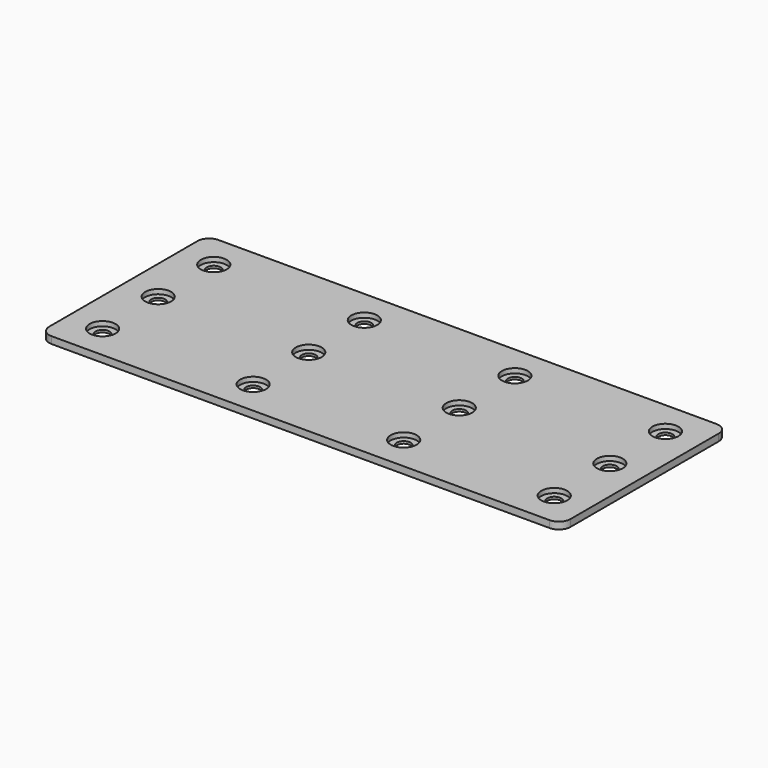
from build123d import *

# Parameters (mm, degrees)
SKETCH001_W     = 225
SKETCH001_H     = 90
PAD_DEPTH       = 2
PAD_DEPTH_BACK  = 1
SKETCH_R        = 5.6
POCKET_DEPTH    = 2.001
SKETCH004_R     = 3
POCKET001_DEPTH = 1.001
FILLET_R        = 5


with BuildPart() as part:
    # Sketch001 → Pad (new body, two sides)
    with BuildSketch(Plane.XY) as pad_sk:
        Rectangle(SKETCH001_W, SKETCH001_H)
    extrude(amount=PAD_DEPTH)
    extrude(pad_sk.sketch, amount=-PAD_DEPTH_BACK)

    # Sketch → Pocket (cut, through all)
    with BuildSketch(Plane.XY):
        with Locations((-97.5, 30)):
            Circle(SKETCH_R)
        with Locations((-32.5, 30)):
            Circle(SKETCH_R)
        with Locations((32.5, 30)):
            Circle(SKETCH_R)
        with Locations((97.5, 30)):
            Circle(SKETCH_R)
        with Locations((-97.5, 0)):
            Circle(SKETCH_R)
        with Locations((-32.5, 0)):
            Circle(SKETCH_R)
        with Locations((32.5, 0)):
            Circle(SKETCH_R)
        with Locations((97.5, 0)):
            Circle(SKETCH_R)
        with Locations((-97.5, -30)):
            Circle(SKETCH_R)
        with Locations((-32.5, -30)):
            Circle(SKETCH_R)
        with Locations((32.5, -30)):
            Circle(SKETCH_R)
        with Locations((97.5, -30)):
            Circle(SKETCH_R)
    extrude(amount=POCKET_DEPTH, mode=Mode.SUBTRACT)

    # Sketch004 → Pocket001 (cut, through all)
    with BuildSketch(Plane.XY):
        with Locations((-97.5, 30)):
            Circle(SKETCH004_R)
        with Locations((-32.5, 30)):
            Circle(SKETCH004_R)
        with Locations((32.5, 30)):
            Circle(SKETCH004_R)
        with Locations((97.5, 30)):
            Circle(SKETCH004_R)
        with Locations((-97.5, 0)):
            Circle(SKETCH004_R)
        with Locations((-32.5, 0)):
            Circle(SKETCH004_R)
        with Locations((32.5, 0)):
            Circle(SKETCH004_R)
        with Locations((97.5, 0)):
            Circle(SKETCH004_R)
        with Locations((-97.5, -30)):
            Circle(SKETCH004_R)
        with Locations((-32.5, -30)):
            Circle(SKETCH004_R)
        with Locations((32.5, -30)):
            Circle(SKETCH004_R)
        with Locations((97.5, -30)):
            Circle(SKETCH004_R)
    extrude(amount=-POCKET001_DEPTH, mode=Mode.SUBTRACT)

    # Fillet
    fillet_edges = [part.edges().sort_by_distance(p)[0] for p in [
        (-112.5, -45, 0.5),
        (-112.5, 45, 0.5),
        (112.5, -45, 0.5),
        (112.5, 45, 0.5),
    ]]
    fillet(fillet_edges, radius=FILLET_R)


solid = part.part
